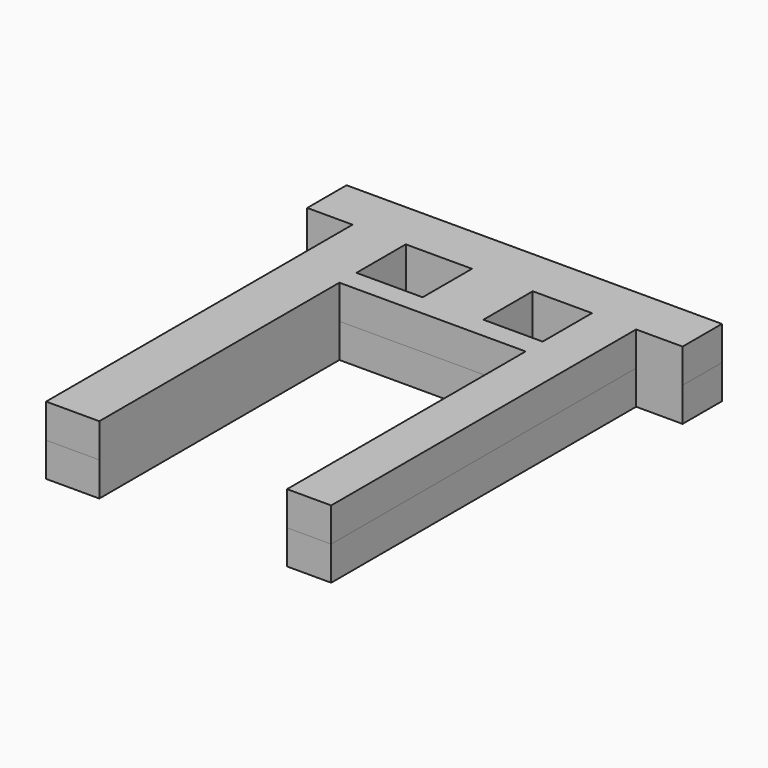
from build123d import *

# Parameters (mm, degrees)
F0_W      = 5.186424
F0_H      = 49.789705
F1_DEPTH  = 4
F2_W      = 44.104569
F2_H      = 5.776688
F3_DEPTH  = 4
F4_W      = 6.25442
F4_H      = 50.271391
F5_DEPTH  = 4
F6_W      = 33.229899
F6_H      = 2.503887
F7_DEPTH  = 4
F7_FACE_W = 21.879718
F7_FACE_H = 7.246642
F8_DEPTH  = 4
F9_W      = 7.138662
F9_H      = 8.083487
F10_DEPTH = 8


with BuildPart() as f1:
    # F0 (on Top) → F1 (new body)
    with BuildSketch(Plane.XY):
        with Locations((11.306383, -7.468443)):
            Rectangle(F0_W, F0_H)
    extrude(amount=F1_DEPTH)

    # F2 (on Top) → F3 (join)
    with BuildSketch(Plane.XY):
        with Locations((-2.693523, 15.311666)):
            Rectangle(F2_W, F2_H)
    extrude(amount=F3_DEPTH)

    # F4 (on Top) → F5 (join)
    with BuildSketch(Plane.XY):
        with Locations((-16.293757, -7.450662)):
            Rectangle(F4_W, F4_H)
    extrude(amount=F5_DEPTH)

    # F6 (on Top) → F7 (join)
    with BuildSketch(Plane.XY):
        with Locations((-2.763808, 3.924736)):
            Rectangle(F6_W, F6_H)
    extrude(amount=F7_DEPTH)

    # F7_face (on face) → F8 (join)
    with BuildSketch(Plane(origin=(-3.362843, -1.260453, 4), x_dir=(1, 0, 0), z_dir=(0, 0, 1))):
        Polygon((-9.803704, -31.325906), (-9.803704, 3.933246), (12.076014, 3.933246), (12.076014, -31.102843), (17.262437, -31.102843), (17.262437, 13.683775), (22.721604, 13.683775), (22.721604, 19.460463), (-21.382964, 19.460463), (-21.382964, 13.683775), (-16.058124, 13.683775), (-16.058124, -31.325906), align=None)
        with Locations((1.136155, 10.060454)):
            Rectangle(F7_FACE_W, F7_FACE_H, mode=Mode.SUBTRACT)
    extrude(amount=F8_DEPTH)

    # F9 (on Top) → F10 (join)
    with BuildSketch(Plane.XY):
        with Locations((-1.817077, 8.407519)):
            Rectangle(F9_W, F9_H)
    extrude(amount=F10_DEPTH)


solid = f1.part
